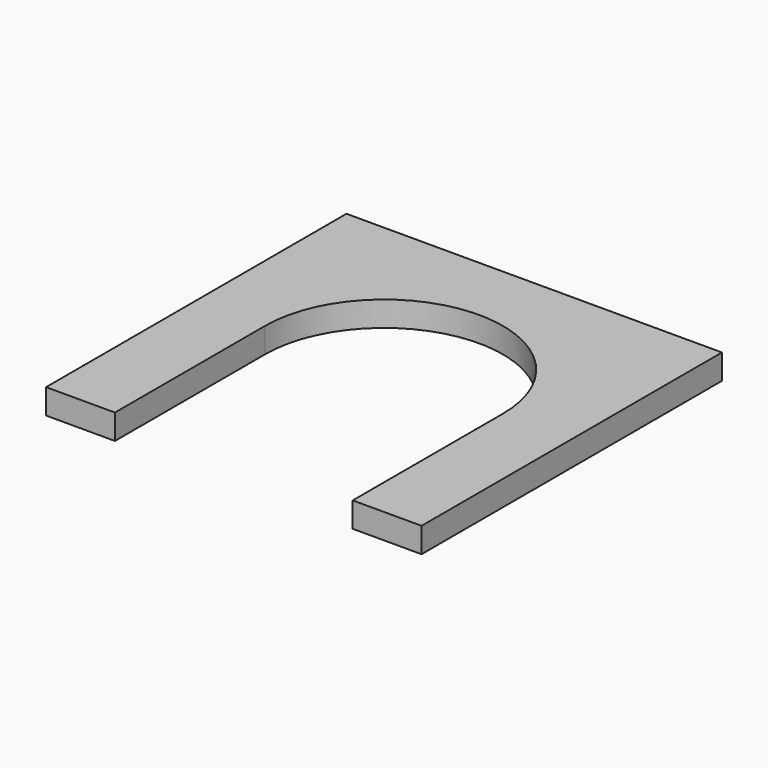
from build123d import *

# Parameters (mm, degrees)
PAD_DEPTH = 2


with BuildPart() as part:
    # Sketch → Pad (new body)
    with BuildSketch(Plane.XY):
        with BuildLine():
            Line((-9.5, 0), (-9.5, -15))
            Line((-9.5, -15), (-15, -15))
            Line((-15, -15), (-15, 15))
            Line((-15, 15), (15, 15))
            Line((15, 15), (15, -15))
            Line((15, -15), (9.5, -15))
            Line((9.5, -15), (9.5, 0))
            ThreePointArc((9.5, 0), (0, 9.5), (-9.5, 0))
        make_face()
    extrude(amount=PAD_DEPTH)


solid = part.part
